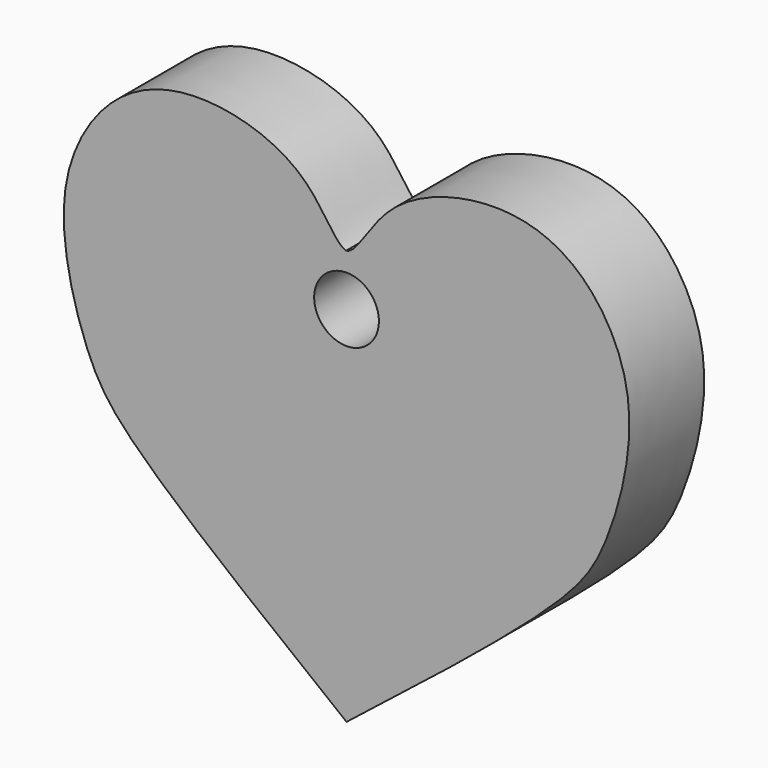
from build123d import *

# Parameters (mm, degrees)
F1_DEPTH = 6.35
F2_R     = 2.1949537
F3_DEPTH = 25.4


with BuildPart() as f1:
    # F0 (on Front) → F1 (new body)
    with BuildSketch(Plane.XZ):
        with BuildLine():
            Line((37.1304377913, 27.251271531), (37.1304377913, -0.8942059414))
            add(Edge.make_bspline(
                [(37.1304377913, -0.8942059414), (43.0232004812, 3.7244564333), (52.0628694243, 10.8096185251), (55.024015953, 15.5617322774), (57.4363591779, 24.8399316722), (53.0195492472, 32.177682128), (46.5087860461, 33.7494806161), (39.813426383, 31.4503423497), (37.8950857439, 27.4664616169), (37.1407445386, 27.2181418958), (37.1304377913, 27.251271531)],
                knots=[0, 0, 0, 0, 0.2104235543, 0.3227958377, 0.4659343135, 0.5997671573, 0.719450616, 0.8450635773, 0.9424309929, 0.9744980466, 0.9744980466, 0.9744980466, 0.9744980466], degree=3))
        make_face()
        with BuildLine():
            add(Edge.make_bspline(
                [(37.1304377913, -0.8942059414), (31.2376751015, 3.7244564333), (22.1980061584, 10.8096185251), (19.2368596296, 15.5617322774), (16.8245164048, 24.8399316722), (21.2413263355, 32.177682128), (27.7520895366, 33.7494806161), (34.4474491997, 31.4503423497), (36.3657898388, 27.4664616169), (37.1201310441, 27.2181418958), (37.1304377913, 27.251271531)],
                knots=[0, 0, 0, 0, 0.2104235543, 0.3227958377, 0.4659343135, 0.5997671573, 0.719450616, 0.8450635773, 0.9424309929, 0.9744980466, 0.9744980466, 0.9744980466, 0.9744980466], degree=3))
            Line((37.1304377913, -0.8942059414), (37.1304377913, 27.251271531))
        make_face()
    extrude(amount=F1_DEPTH)

    # F2 (on face) → F3 (cut)
    with BuildSketch(Plane.XZ.offset(6.35)):
        with Locations((37.1304378469, 23.7400675687)):
            Circle(F2_R)
    extrude(amount=-F3_DEPTH, mode=Mode.SUBTRACT)


with BuildPart() as f1b:
    # F0 (on Front) → F1, piece 2 (new body)
    with BuildSketch(Plane.XZ):
        with BuildLine():
            add(Edge.make_bspline(
                [(37.1304377913, 27.251271531), (37.129820712, 27.2532550485), (37.1298365961, 27.2555778475), (37.1304377913, 27.2582143856)],
                knots=[0.9744980466, 0.9744980466, 0.9744980466, 0.9744980466, 0.9764179459, 0.9764179459, 0.9764179459, 0.9764179459], degree=3))
            add(Edge.make_bspline(
                [(37.1304377913, 27.251271531), (37.1310548707, 27.2532550485), (37.1310389866, 27.2555778475), (37.1304377913, 27.2582143856)],
                knots=[0.9744980466, 0.9744980466, 0.9744980466, 0.9744980466, 0.9764179459, 0.9764179459, 0.9764179459, 0.9764179459], degree=3))
        make_face()
    extrude(amount=F1_DEPTH)


solid = Compound([f1.part, f1b.part])
